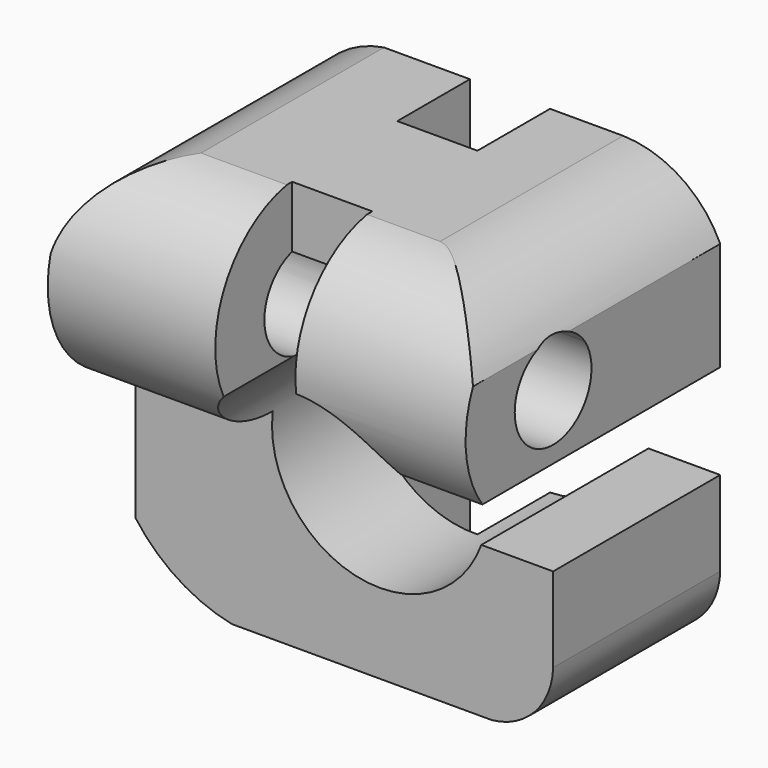
from build123d import *

# Parameters (mm, degrees)
F0_W          = 118.8822906261
F0_H          = 118.8822906261
F1_DEPTH      = 59.441
F1_DEPTH_BACK = 59.441
F3_DEPTH      = 118.883
F4_DEPTH      = 118.883
F5_DEPTH      = 118.883
F6_DEPTH      = 118.883
F8_DEPTH      = 118.8832906261
F9_W          = 22.8022392839
F9_H          = 25.8253251765
F9_H_2        = 1.8863490666
F10_DEPTH     = 118.8832906261


with BuildPart() as f1:
    # F0 (on Front) → F1 (new body, two sides)
    with BuildSketch(Plane.XZ) as f1_sk:
        with Locations((0.0400656936, -7.1052906933)):
            Rectangle(F0_W, F0_H)
    extrude(amount=F1_DEPTH)
    extrude(f1_sk.sketch, amount=-F1_DEPTH_BACK)

    # F2 (on face) → F3 (cut, through all)
    with BuildSketch(Plane.XZ.offset(59.441)):
        with BuildLine():
            Line((59.4812110066, -23.6291363835), (59.4812110066, 3.3540143631))
            Line((59.4812110066, 3.3540143631), (36.171077782, 3.3540143631))
            ThreePointArc((36.171077782, 3.3540143631), (-20.329200251, -16.339702262), (39.0592501624, -23.6291363835))
            Line((39.0592501624, -23.6291363835), (59.4812110066, -23.6291363835))
        make_face()
        with BuildLine():
            ThreePointArc((-59.4010796194, 29.4173564762), (-51.4744086785, 44.6051407739), (-36.1859500408, 52.3358546197))
            Line((-36.1859500408, 52.3358546197), (-59.4010796194, 52.3358546197))
            Line((-59.4010796194, 52.3358546197), (-59.4010796194, 29.4173564762))
        make_face()
    extrude(amount=-F3_DEPTH, mode=Mode.SUBTRACT)

    # F2 (on face) → F4 (cut, through all)
    with BuildSketch(Plane.XZ.offset(59.441)):
        with BuildLine():
            Line((59.4812110066, 52.3358546197), (31.8523161113, 52.3358546197))
            ThreePointArc((31.8523161113, 52.3358546197), (48.2543109443, 47.2441953068), (59.4812110066, 34.2477671802))
            Line((59.4812110066, 34.2477671802), (59.4812110066, 52.3358546197))
        make_face()
    extrude(amount=-F4_DEPTH, mode=Mode.SUBTRACT)

    # F2 (on face) → F5 (cut, through all)
    with BuildSketch(Plane.XZ.offset(59.441)):
        with BuildLine():
            ThreePointArc((-31.8904966116, -66.5464360063), (-47.2927113432, -60.2340029507), (-59.4010796194, -48.8119870424))
            Line((-59.4010796194, -48.8119870424), (-59.4010796194, -66.5464360063))
            Line((-59.4010796194, -66.5464360063), (-31.8904966116, -66.5464360063))
        make_face()
    extrude(amount=-F5_DEPTH, mode=Mode.SUBTRACT)

    # F2 (on face) → F6 (cut, through all)
    with BuildSketch(Plane.XZ.offset(59.441)):
        with BuildLine():
            ThreePointArc((59.4812110066, -47.7445162833), (54.3094541563, -60.4346481438), (42.0443587764, -66.5464360063))
            Line((42.0443587764, -66.5464360063), (59.4812110066, -66.5464360063))
            Line((59.4812110066, -66.5464360063), (59.4812110066, -47.7445162833))
        make_face()
    extrude(amount=-F6_DEPTH, mode=Mode.SUBTRACT)

    # F7 (on face) → F8 (cut, through all)
    with BuildSketch(Plane(origin=(-59.4010796194, 0, 0), x_dir=(0, -1, 0), z_dir=(-1, 0, 0))):
        with BuildLine():
            Line((0, -9.4056399539), (0, -48.8119870424))
            Line((0, -48.8119870424), (59.441, -48.8119870424))
            Line((59.441, -48.8119870424), (59.441, 29.4173564762))
            Line((59.441, 29.4173564762), (30.1632257603, 29.4173564762))
            ThreePointArc((30.1632257603, 29.4173564762), (24.581727157, 2.6248182068), (0, -9.4056399539))
        make_face()
        with BuildLine():
            Line((0, -48.8119870424), (0, -66.7257010937))
            Line((0, -66.7257010937), (59.7706362605, -66.7257010937))
            Line((59.7706362605, -66.7257010937), (59.441, 52.8524406254))
            Line((59.441, 52.8524406254), (0, 52.8524406254))
            ThreePointArc((0, 52.8524406254), (19.098582129, 46.3051274927), (30.1632257603, 29.4173564762))
            Line((30.1632257603, 29.4173564762), (59.441, 29.4173564762))
            Line((59.441, 29.4173564762), (59.441, -48.8119870424))
            Line((59.441, -48.8119870424), (0, -48.8119870424))
        make_face()
        with BuildLine():
            Line((-11.276206805, 29.4173564762), (11.276206805, 29.4173564762))
            ThreePointArc((11.276206805, 29.4173564762), (0, 35.3744003358), (-11.276206805, 29.4173564762))
        make_face()
        with BuildLine():
            ThreePointArc((13.651, 21.7234003358), (13.0437973784, 25.749459321), (11.276206805, 29.4173564762))
            Line((11.276206805, 29.4173564762), (-11.276206805, 29.4173564762))
            ThreePointArc((-11.276206805, 29.4173564762), (-4.0260589852, 8.6796029574), (13.651, 21.7234003358))
        make_face()
    extrude(amount=-F8_DEPTH, mode=Mode.SUBTRACT)

    # F9 (on face) → F10 (cut, through all)
    with BuildSketch(Plane.XY.offset(52.3358546197)):
        with Locations((-0.3479313365, 46.5283374118)):
            Rectangle(F9_W, F9_H)
        with Locations((-0.3479313365, -4.7043729049)):
            Rectangle(F9_W, F9_H_2)
        Polygon((-11.7490509785, -5.6475474382), (-11.7490509785, -48.8955229521), (11.0531883055, -48.660453409), (11.0531883055, -5.6475474382), align=None)
    extrude(amount=-F10_DEPTH, mode=Mode.SUBTRACT)


solid = f1.part
